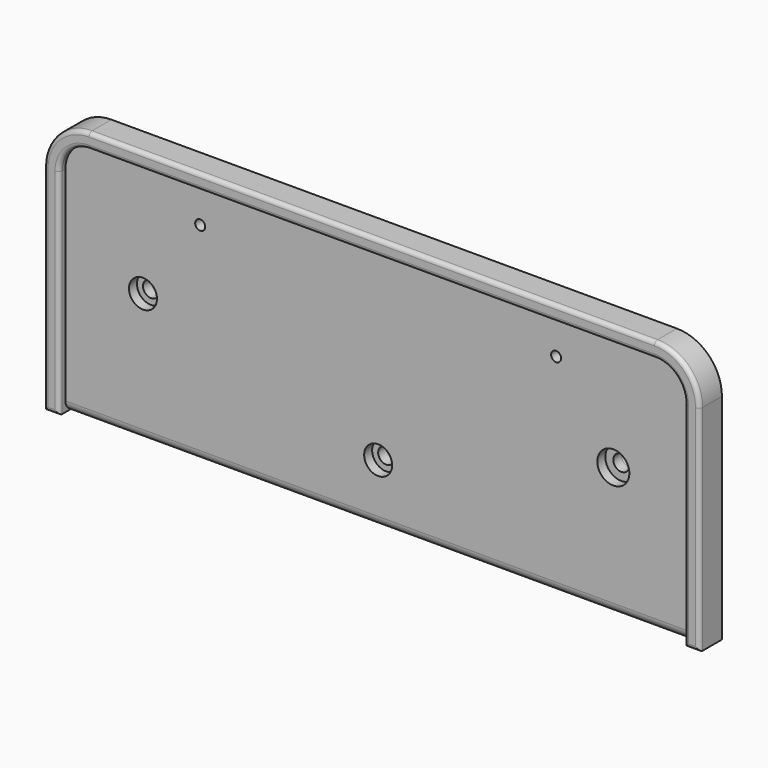
from build123d import *

# Parameters (mm, degrees)
F0_R      = 4
F0_R_2    = 2.5
F1_DEPTH  = 10
F2_DEPTH  = 14
F3_R      = 2
F4_R      = 5
F5_R      = 7
F5_R_2    = 8
F6_DEPTH  = 5
F7_R      = 8
F7_R_2    = 4
F8_DEPTH  = 5
F9_R      = 4
F10_DEPTH = 25
F11_R     = 7
F11_R_2   = 4
F12_DEPTH = 5


with BuildPart() as f1:
    # F0 (on Front) → F1 (new body)
    with BuildSketch(Plane.XZ):
        with BuildLine():
            Line((-141.25, 57.25), (141.25, 57.25))
            ThreePointArc((141.25, 57.25), (151.8566017178, 52.8566017178), (156.25, 42.25))
            Line((156.25, 42.25), (156.25, -64.75))
            Line((156.25, -64.75), (163.75, -64.75))
            Line((163.75, -64.75), (163.75, 42.25))
            ThreePointArc((163.75, 42.25), (157.1599025767, 58.1599025767), (141.25, 64.75))
            Line((141.25, 64.75), (-141.25, 64.75))
            ThreePointArc((-141.25, 64.75), (-157.1599025767, 58.1599025767), (-163.75, 42.25))
            Line((-163.75, 42.25), (-163.75, -64.75))
            Line((-163.75, -64.75), (-156.25, -64.75))
            Line((-156.25, -64.75), (-156.25, 42.25))
            ThreePointArc((-156.25, 42.25), (-151.8566017178, 52.8566017178), (-141.25, 57.25))
        make_face()
        with BuildLine():
            ThreePointArc((156.25, 42.25), (151.8566017178, 52.8566017178), (141.25, 57.25))
            Line((141.25, 57.25), (-141.25, 57.25))
            ThreePointArc((-141.25, 57.25), (-151.8566017178, 52.8566017178), (-156.25, 42.25))
            Line((-156.25, 42.25), (-156.25, -64.75))
            Line((-156.25, -64.75), (156.25, -64.75))
            Line((156.25, -64.75), (156.25, 42.25))
        make_face()
        with Locations((-117.5, 0)):
            Circle(F0_R, mode=Mode.SUBTRACT)
        with Locations((-88.9, 39.47)):
            Circle(F0_R_2, mode=Mode.SUBTRACT)
        with Locations((117.5, 0)):
            Circle(F0_R, mode=Mode.SUBTRACT)
        with Locations((88.9, 39.47)):
            Circle(F0_R_2, mode=Mode.SUBTRACT)
    extrude(amount=F1_DEPTH)

    # F0 (on Front) → F2 (join)
    with BuildSketch(Plane.XZ):
        with BuildLine():
            Line((-141.25, 57.25), (141.25, 57.25))
            ThreePointArc((141.25, 57.25), (151.8566017178, 52.8566017178), (156.25, 42.25))
            Line((156.25, 42.25), (156.25, -64.75))
            Line((156.25, -64.75), (163.75, -64.75))
            Line((163.75, -64.75), (163.75, 42.25))
            ThreePointArc((163.75, 42.25), (157.1599025767, 58.1599025767), (141.25, 64.75))
            Line((141.25, 64.75), (-141.25, 64.75))
            ThreePointArc((-141.25, 64.75), (-157.1599025767, 58.1599025767), (-163.75, 42.25))
            Line((-163.75, 42.25), (-163.75, -64.75))
            Line((-163.75, -64.75), (-156.25, -64.75))
            Line((-156.25, -64.75), (-156.25, 42.25))
            ThreePointArc((-156.25, 42.25), (-151.8566017178, 52.8566017178), (-141.25, 57.25))
        make_face()
    extrude(amount=F2_DEPTH)

    # F3
    f3_edges = [f1.edges().sort_by_distance(p)[0] for p in [
        (-163.75, -14, -11.25),
        (0, -14, 57.25),
        (-160, -14, -64.75),
        (160, -14, -64.75),
    ]]
    fillet(f3_edges, radius=F3_R)

    # F4
    f4_edges = [f1.edges().sort_by_distance(p)[0] for p in [
        (0, -10, -64.75),
    ]]
    fillet(f4_edges, radius=F4_R)

    # F5 (on face) → F6 (cut)
    with BuildSketch(Plane.XZ.offset(10)):
        with Locations((-117.5, 0)):
            Circle(F5_R)
        with Locations((117.5, 0)):
            Circle(F5_R_2)
    extrude(amount=-F6_DEPTH, mode=Mode.SUBTRACT)

    # F9 (on face) → F10 (cut)
    with BuildSketch(Plane.XZ.offset(10)):
        with Locations((0, -35)):
            Circle(F9_R)
    extrude(amount=-F10_DEPTH, mode=Mode.SUBTRACT)

    # F11 (on face) → F12 (cut)
    with BuildSketch(Plane.XZ.offset(10)):
        with Locations((0, -35)):
            Circle(F11_R)
        with Locations((0, -35)):
            Circle(F11_R_2, mode=Mode.SUBTRACT)
    extrude(amount=-F12_DEPTH, mode=Mode.SUBTRACT)


with BuildPart() as f8:
    # F7 (on face) → F8 (new body)
    with BuildSketch(Plane.XZ):
        with Locations((117.5, 0)):
            Circle(F7_R)
        with Locations((117.5, 0)):
            Circle(F7_R_2, mode=Mode.SUBTRACT)
    extrude(amount=-F8_DEPTH)


with BuildPart() as f8b:
    # F7 (on face) → F8, piece 2 (new body)
    with BuildSketch(Plane.XZ):
        with Locations((-117.5, 0)):
            Circle(F7_R)
        with Locations((-117.5, 0)):
            Circle(F7_R_2, mode=Mode.SUBTRACT)
    extrude(amount=-F8_DEPTH)


with BuildPart() as f8c:
    # F7 (on face) → F8, piece 3 (new body)
    with BuildSketch(Plane.XZ):
        with Locations((0, -35)):
            Circle(F7_R)
        with Locations((0, -35)):
            Circle(F7_R_2, mode=Mode.SUBTRACT)
    extrude(amount=-F8_DEPTH)


solid = Compound([f1.part, f8.part, f8b.part, f8c.part])
